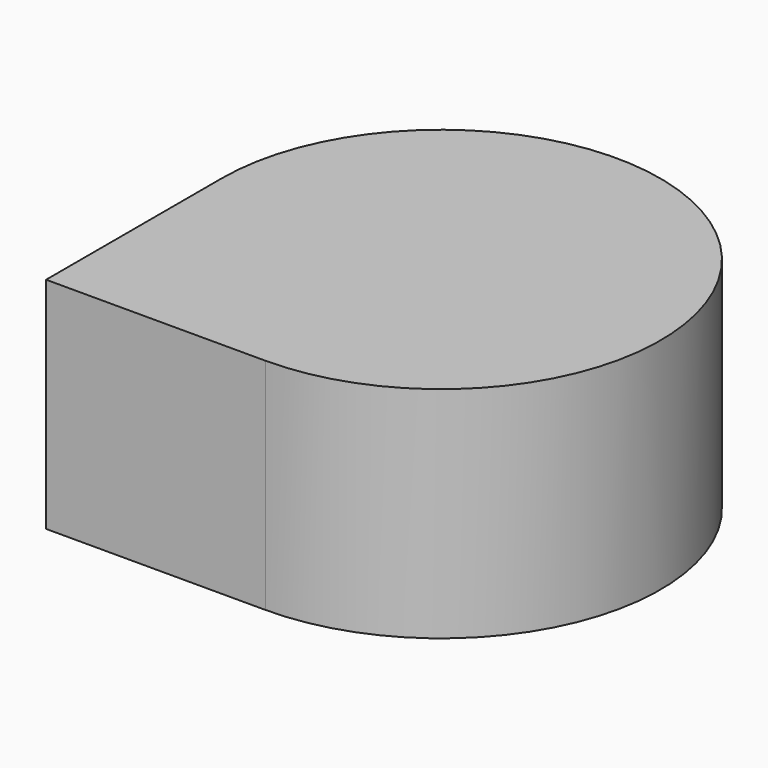
from build123d import *

# Parameters (mm, degrees)
F0_W     = 60
F0_H     = 60
F1_DEPTH = 60
F2_W     = 30
F2_H     = 30


with BuildPart() as f1:
    # F0 (on Front) → F1 (new body)
    with BuildSketch(Plane.XZ):
        with Locations((-30, -30)):
            Rectangle(F0_W, F0_H)
    extrude(amount=F1_DEPTH)

    # F2 (on face) → F3 (revolve)
    with BuildSketch(Plane(origin=(0, 0, 0), x_dir=(-1, 0, 0), z_dir=(0, 1, 0))):
        with Locations((-15, -27.4707084894)):
            Rectangle(F2_W, F2_H)
        Polygon((0, -12.4707084894), (0, -42.4707084894), (0, -60), (60, -60), (60, 0), (0, 0), align=None)
    revolve(axis=Axis((0, 0, -27.4707084894), (0, 0, 1)))


solid = f1.part
